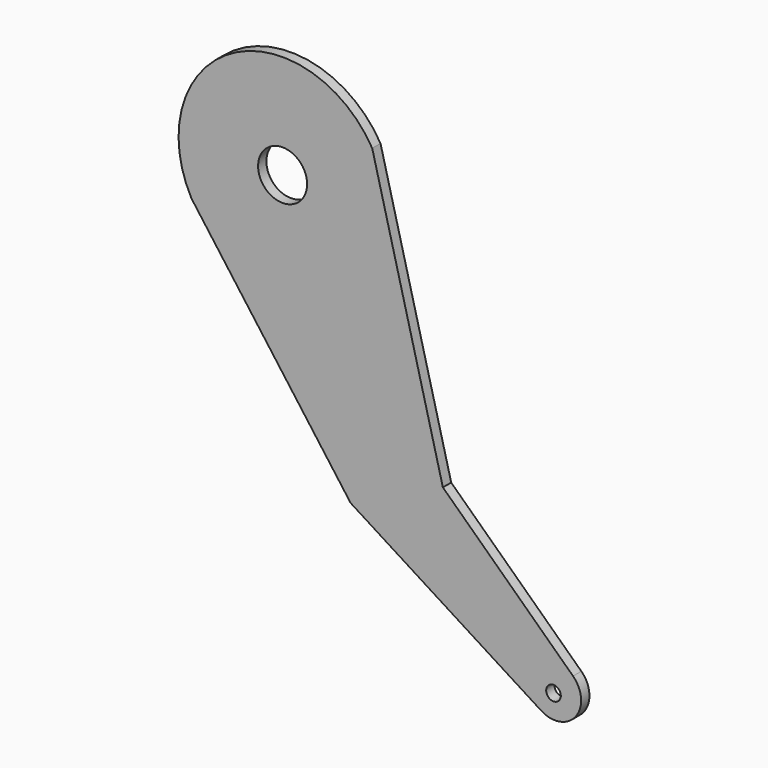
from build123d import *

# Parameters (mm, degrees)
F1_DEPTH = 10
F3_R     = 23.567946
F3_R_2   = 7.024797
F4_DEPTH = 71.12


with BuildPart() as f1:
    # F0 (on Front) → F1 (new body)
    with BuildSketch(Plane.XZ):
        with BuildLine():
            Line((154.087348, -214.156577), (86.144056, 50.78584))
            ThreePointArc((86.144056, 50.78584), (-49.547977, 86.861948), (-87.562053, -48.299968))
            Line((-87.562053, -48.299968), (65.378395, -256.205144))
            Line((65.378395, -256.205144), (248.617586, -372.40602))
            ThreePointArc((248.617586, -372.40602), (281.714026, -366.675149), (279.234878, -333.17782))
            Line((279.234878, -333.17782), (154.087348, -214.156577))
        make_face()
    extrude(amount=F1_DEPTH)

    # F3 (on face) → F4 (cut)
    with BuildSketch(Plane.XZ.offset(10)):
        Circle(F3_R)
        with Locations((260.438353, -353.686213)):
            Circle(F3_R_2)
    extrude(amount=-F4_DEPTH, mode=Mode.SUBTRACT)


solid = f1.part
